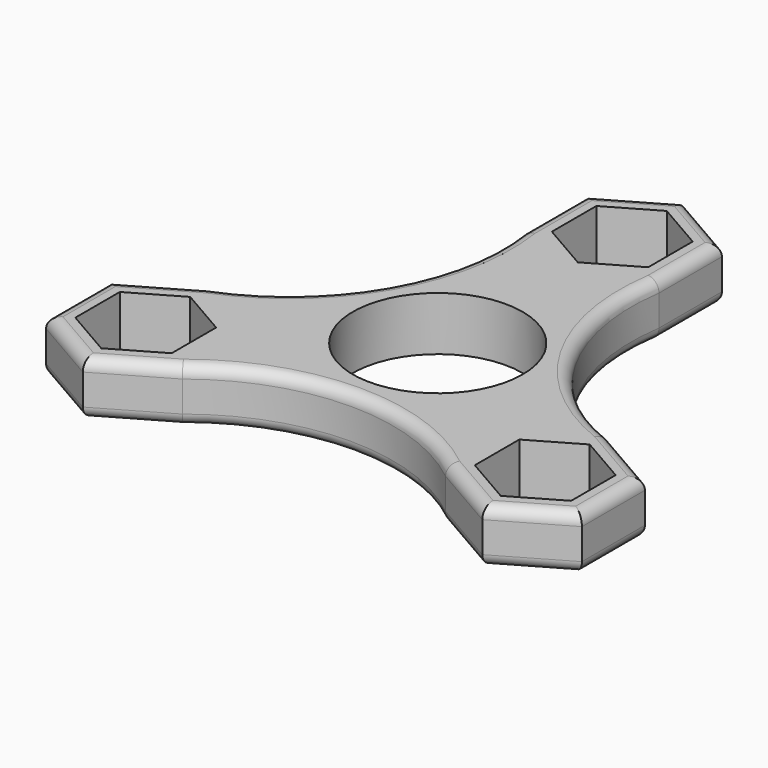
from build123d import *

# Parameters (mm, degrees)
F0_R     = 11.025
F1_DEPTH = 7
F2_R     = 1.5


with BuildPart() as f1:
    # F0 (on Top) → F1 (new body)
    with BuildSketch(Plane.XY):
        with BuildLine():
            Line((8.85511, 24.849853), (8.85511, 35.074853))
            Line((8.85511, 35.074853), (0, 40.187353))
            Line((0, 40.187353), (-8.85511, 35.074853))
            Line((-8.85511, 35.074853), (-8.85511, 24.849853))
            ThreePointArc((-8.85511, 24.849853), (-12.204102, 7.046041), (-25.948159, -4.756177))
            Line((-25.948159, -4.756177), (-34.803269, -9.868677))
            Line((-34.803269, -9.868677), (-34.803269, -20.093677))
            Line((-34.803269, -20.093677), (-25.948159, -25.206177))
            Line((-25.948159, -25.206177), (-17.093049, -20.093677))
            ThreePointArc((-17.093049, -20.093677), (0, -14.092083), (17.093049, -20.093677))
            Line((17.093049, -20.093677), (25.948159, -25.206177))
            Line((25.948159, -25.206177), (34.803269, -20.093677))
            Line((34.803269, -20.093677), (34.803269, -9.868677))
            Line((34.803269, -9.868677), (25.948159, -4.756177))
            ThreePointArc((25.948159, -4.756177), (12.204102, 7.046041), (8.85511, 24.849853))
        make_face()
        Polygon((-32.205193, -11.368677), (-25.948159, -7.756177), (-19.691126, -11.368677), (-19.691126, -18.593677), (-25.948159, -22.206177), (-32.205193, -18.593677), align=None, mode=Mode.SUBTRACT)
        Polygon((25.948159, -22.206177), (19.691126, -18.593677), (19.691126, -11.368677), (25.948159, -7.756177), (32.205193, -11.368677), (32.205193, -18.593677), align=None, mode=Mode.SUBTRACT)
        Circle(F0_R, mode=Mode.SUBTRACT)
        Polygon((0, 37.187353), (6.257034, 33.574853), (6.257034, 26.349853), (0, 22.737353), (-6.257034, 26.349853), (-6.257034, 33.574853), align=None, mode=Mode.SUBTRACT)
    extrude(amount=F1_DEPTH)

    # F2
    f2_edges = [f1.edges().sort_by_distance(p)[0] for p in [
        (0, -14.092083, 7),
        (-21.520604, -22.649927, 7),
        (-30.375714, -22.649927, 7),
        (-34.803269, -14.981177, 7),
        (-30.375714, -7.312427, 7),
        (-12.204102, 7.046041, 7),
        (21.520604, -22.649927, 7),
        (30.375714, -22.649927, 7),
        (34.803269, -14.981177, 7),
        (30.375714, -7.312427, 7),
        (12.204102, 7.046041, 7),
        (8.85511, 29.962353, 7),
        (4.427555, 37.631103, 7),
        (-4.427555, 37.631103, 7),
        (-8.85511, 29.962353, 7),
        (0, -14.092083, 0),
        (-21.520604, -22.649927, 0),
        (-30.375714, -22.649927, 0),
        (-34.803269, -14.981177, 0),
        (-30.375714, -7.312427, 0),
        (-12.204102, 7.046041, 0),
        (-8.85511, 29.962353, 0),
        (-4.427555, 37.631103, 0),
        (4.427555, 37.631103, 0),
        (8.85511, 29.962353, 0),
        (12.204102, 7.046041, 0),
        (30.375714, -7.312427, 0),
        (34.803269, -14.981177, 0),
        (30.375714, -22.649927, 0),
        (21.520604, -22.649927, 0),
    ]]
    fillet(f2_edges, radius=F2_R)


solid = f1.part
